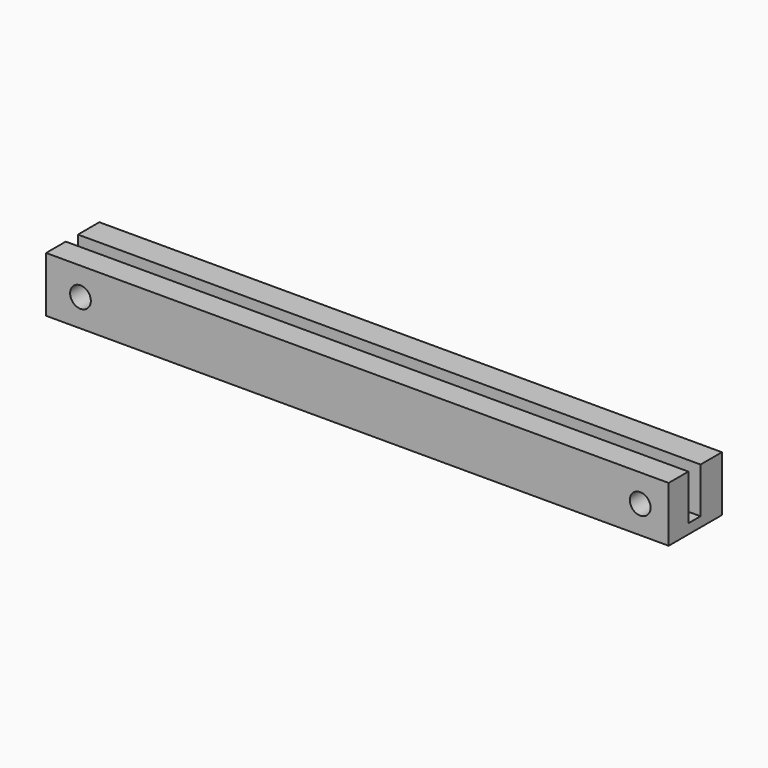
from build123d import *

# Parameters (mm, degrees)
F0_W     = 114.3
F0_H     = 10.16
F1_DEPTH = 12.2174
F2_W     = 114.3
F2_H     = 2.794
F3_DEPTH = 8.3566
F4_R     = 1.905
F5_DEPTH = 25.4


with BuildPart() as f1:
    # F0 (on Front) → F1 (new body)
    with BuildSketch(Plane.XZ):
        Rectangle(F0_W, F0_H)
    extrude(amount=F1_DEPTH)

    # F2 (on face) → F3 (cut)
    with BuildSketch(Plane.XY.offset(5.08)):
        with Locations((0, -6.303842)):
            Rectangle(F2_W, F2_H)
    extrude(amount=-F3_DEPTH, mode=Mode.SUBTRACT)

    # F4 (on face) → F5 (cut)
    with BuildSketch(Plane.XZ.offset(12.2174)):
        with Locations((-50.835151, 0)):
            Circle(F4_R)
        with Locations((51.921636, 0)):
            Circle(F4_R)
    extrude(amount=-F5_DEPTH, mode=Mode.SUBTRACT)


solid = f1.part
